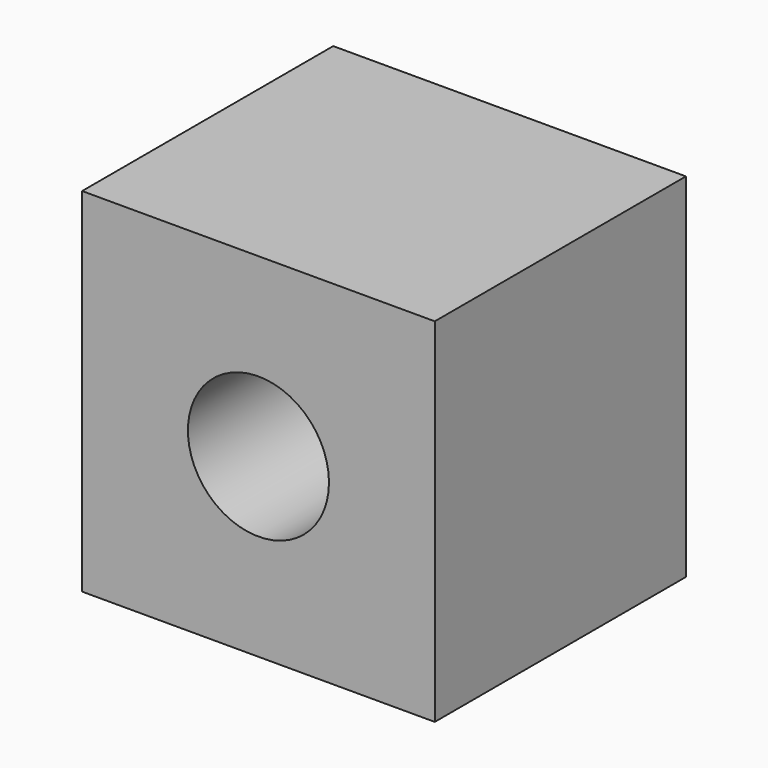
from build123d import *

# Parameters (mm, degrees)
F0_R     = 12.7
F1_DEPTH = 56.515


with BuildPart() as f1:
    # F0 (on Front) → F1 (new body)
    with BuildSketch(Plane.XZ):
        with BuildLine():
            ThreePointArc((-3.8e-08, -31.75), (22.4506402893, -22.4506403161), (31.75, 0))
            ThreePointArc((31.75, 0), (22.4506402996, 22.4506403057), (-8.6e-09, 31.75))
            ThreePointArc((-8.6e-09, 31.75), (-22.4506403095, 22.4506402959), (-31.75, -1.06e-08))
            ThreePointArc((-31.75, -1.06e-08), (-22.4506403123, -22.450640293), (-3.8e-08, -31.75))
        make_face()
        Circle(F0_R, mode=Mode.SUBTRACT)
        with BuildLine():
            Line((31.75, -31.75), (31.75, 0))
            ThreePointArc((31.75, 0), (22.4506402893, -22.4506403161), (-3.8e-08, -31.75))
            Line((-3.8e-08, -31.75), (31.75, -31.75))
        make_face()
        with BuildLine():
            ThreePointArc((-8.6e-09, 31.75), (22.4506402996, 22.4506403057), (31.75, 0))
            Line((31.75, 0), (31.75, 31.75))
            Line((31.75, 31.75), (-8.6e-09, 31.75))
        make_face()
        with BuildLine():
            ThreePointArc((-31.75, -1.06e-08), (-22.4506403095, 22.4506402959), (-8.6e-09, 31.75))
            Line((-8.6e-09, 31.75), (-31.75, 31.75))
            Line((-31.75, 31.75), (-31.75, -1.06e-08))
        make_face()
        with BuildLine():
            Line((-31.75, -31.75), (-3.8e-08, -31.75))
            ThreePointArc((-3.8e-08, -31.75), (-22.4506403123, -22.450640293), (-31.75, -1.06e-08))
            Line((-31.75, -1.06e-08), (-31.75, -31.75))
        make_face()
    extrude(amount=F1_DEPTH)


solid = f1.part
